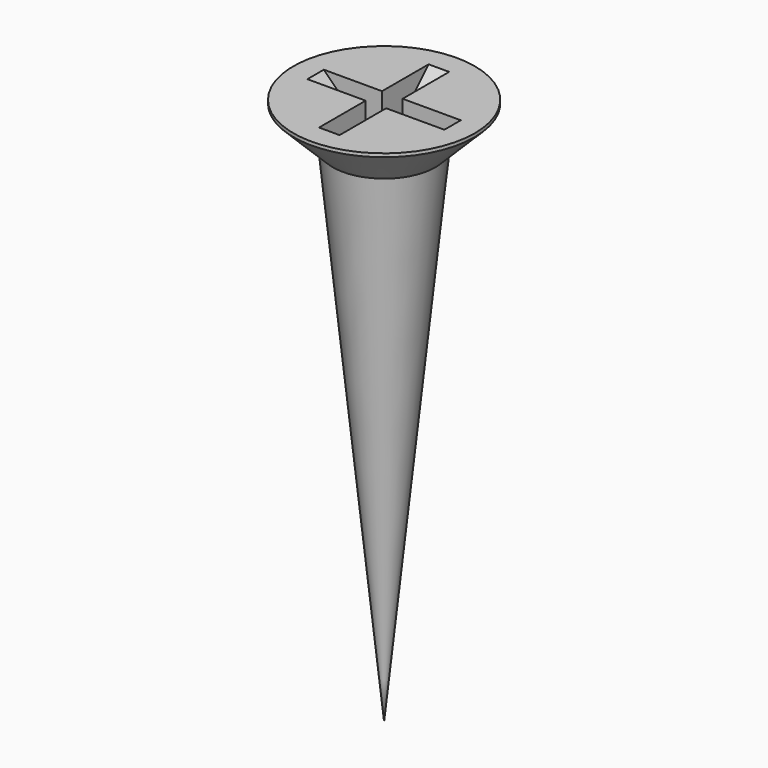
from build123d import *

# Parameters (mm, degrees)
POCKET017_DEPTH    = 0.3
POLARPATTERN_COUNT = 2
POLARPATTERN_ANGLE = 90


with BuildPart() as part:
    # Sketch057 → Revolution010 (revolve)
    with BuildSketch(Plane.XZ):
        Polygon((0, 0), (0, -16), (1.5, -1.25), (2.65, -0.1), (2.65, 0), align=None)
    revolve(axis=Axis((0, 0, 0), (0, 0, 1)))

    # Sketch058 → Pocket017 (cut, symmetric)
    with BuildSketch(Plane.XZ):
        Polygon((-2, 0), (0, -2), (2, 0), align=None)
    pocket017 = extrude(amount=POCKET017_DEPTH, both=True, mode=Mode.SUBTRACT)

    # PolarPattern: Pocket017 ×2 about axis
    polarpattern_axis = Axis((0, 0, 0), (0, 0, 1))
    for i in range(1, POLARPATTERN_COUNT):
        add(pocket017.rotate(polarpattern_axis, i * POLARPATTERN_ANGLE / (POLARPATTERN_COUNT - 1)), mode=Mode.SUBTRACT)


solid = part.part
